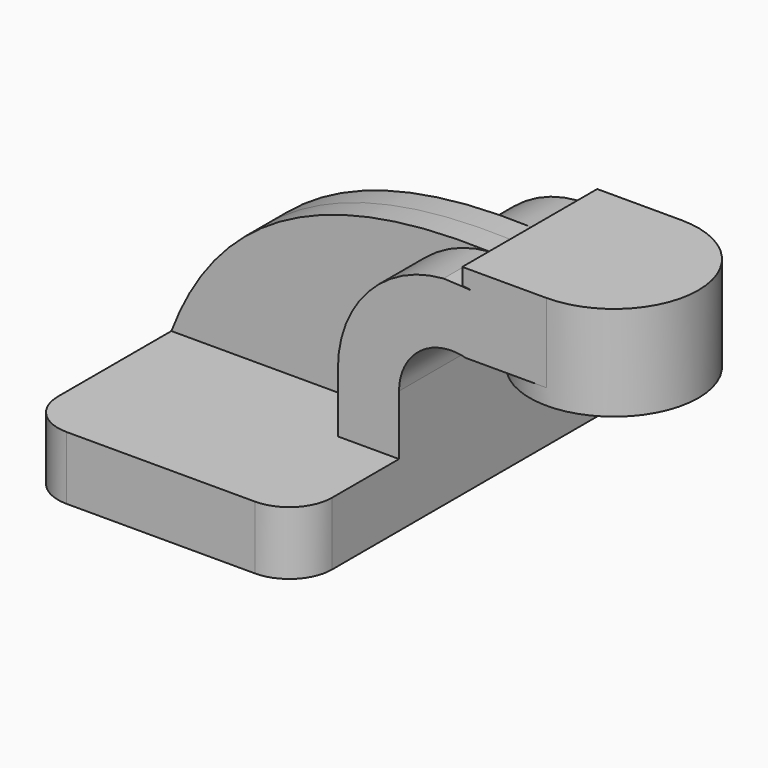
from build123d import *

# Parameters (mm, degrees)
F1_DEPTH = 63.5
F2_DEPTH = 25.4
F3_DEPTH = 7.9375
F5_R     = 12.877415


with BuildPart() as f1:
    # F0 (on Front) → F1 (new body, symmetric)
    with BuildSketch(Plane.XZ):
        Polygon((22.86, 9.525), (-41.275, 9.525), (-41.275, -9.525), (41.275, -9.525), (41.275, 9.525), align=None)
    extrude(amount=F1_DEPTH, both=True)

    # F0 (on Front) → F2 (join, symmetric)
    with BuildSketch(Plane.XZ):
        with BuildLine():
            Line((22.86, 27.554785), (22.86, 9.525))
            Line((22.86, 9.525), (41.275, 9.525))
            Line((41.275, 9.525), (41.275, 27.554785))
            ThreePointArc((41.275, 27.554785), (47.109768, 39.851507), (60.325, 43.109045))
            Line((60.325, 43.109045), (60.325, 61.486875))
            add(Edge.make_bspline(
                [(54.669271, 61.754933), (56.556617, 61.689986), (58.442735, 61.599782), (60.325, 61.486875)],
                knots=[108.732471, 108.732471, 108.732471, 108.732471, 113.939403, 113.939403, 113.939403, 113.939403], degree=3))
            ThreePointArc((54.669271, 61.754933), (32.041552, 50.907942), (22.86, 27.554785))
        make_face()
        with BuildLine():
            Line((60.325, 66.675), (60.325, 61.697478))
            ThreePointArc((60.325, 61.697478), (61.813019, 61.526249), (63.29214, 61.2902))
            add(Edge.make_bspline(
                [(60.325, 61.486875), (61.31524, 61.427476), (62.304414, 61.361794), (63.29214, 61.2902)],
                knots=[113.939403, 113.939403, 113.939403, 113.939403, 116.678715, 116.678715, 116.678715, 116.678715], degree=3))
            Line((60.325, 61.486875), (60.325, 43.109045))
            ThreePointArc((60.325, 43.109045), (60.819058, 42.999967), (61.309388, 42.8752))
            Line((61.309388, 42.8752), (85.725, 42.8752))
            Line((85.725, 42.8752), (85.725, 66.675))
            Line((85.725, 66.675), (60.325, 66.675))
        make_face()
    extrude(amount=F2_DEPTH, both=True)

    # F0 (on Front) → F3 (join, symmetric)
    with BuildSketch(Plane.XZ):
        with BuildLine():
            add(Edge.make_bspline(
                [(-41.275, 9.525), (-24.690354, 53.453726), (15.257235, 63.111172), (54.669271, 61.754933)],
                knots=[0, 0, 0, 0, 108.732471, 108.732471, 108.732471, 108.732471], degree=3))
            Line((-41.275, 9.525), (22.86, 9.525))
            Line((22.86, 9.525), (22.86, 27.554785))
            ThreePointArc((22.86, 27.554785), (32.041552, 50.907942), (54.669271, 61.754933))
        make_face()
    extrude(amount=F3_DEPTH, both=True)

    # F0 (on Front) → F4 (revolve)
    with BuildSketch(Plane.XZ):
        Polygon((111.125, 66.675), (85.725, 66.675), (85.725, 42.8752), (85.725, 38.1), (111.125, 38.1), align=None)
    revolve(axis=Axis((85.725, 0, 52.3875), (0, 0, -1)))

    # F5
    f5_edges = [f1.edges().sort_by_distance(p)[0] for p in [
        (41.275, -63.5, 0),
        (-41.275, -63.5, 0),
        (-41.275, 63.5, 0),
        (41.275, 63.5, 0),
    ]]
    fillet(f5_edges, radius=F5_R)


solid = f1.part
